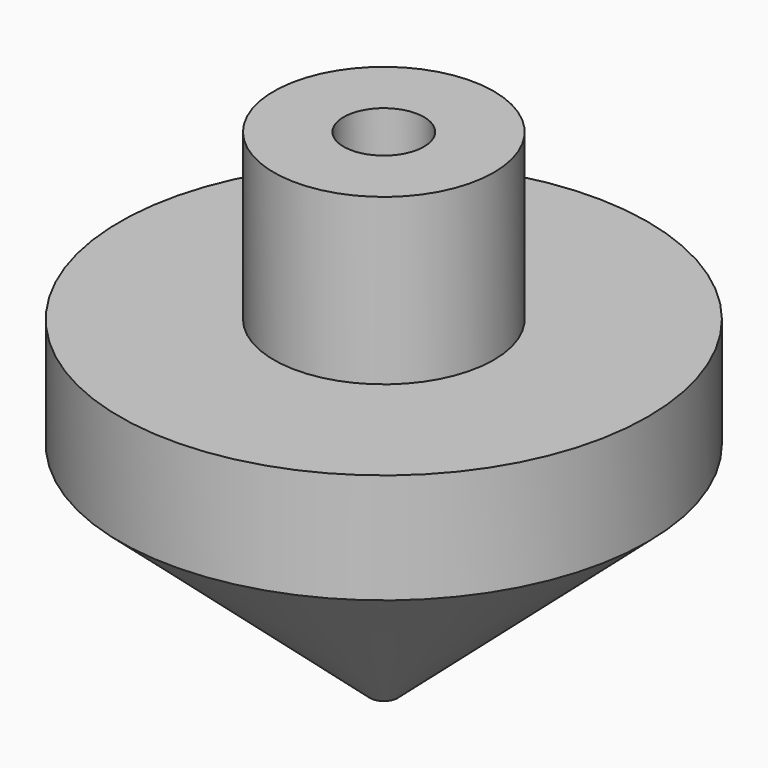
from build123d import *

# Parameters (mm, degrees)
F2_R     = 4.6355
F3_DEPTH = 13.97
F4_R     = 1.5875
F5_DEPTH = 20.32


with BuildPart() as f1:
    # F0 (on Front) → F1 (revolve)
    with BuildSketch(Plane.XZ):
        Polygon((0, 58.42), (0, 0), (30.48, 26.67), (30.48, 39.37), (12.7, 39.37), (12.7, 58.42), align=None)
    revolve(axis=Axis((0, 0, 29.21), (0, 0, -1)))

    # F2 (on face) → F3 (cut)
    with BuildSketch(Plane.XY.offset(58.42)):
        Circle(F2_R)
    extrude(amount=-F3_DEPTH, mode=Mode.SUBTRACT)

    # F4 (on Top) → F5 (cut)
    with BuildSketch(Plane.XY):
        Circle(F4_R)
    extrude(amount=F5_DEPTH, mode=Mode.SUBTRACT)


solid = f1.part
